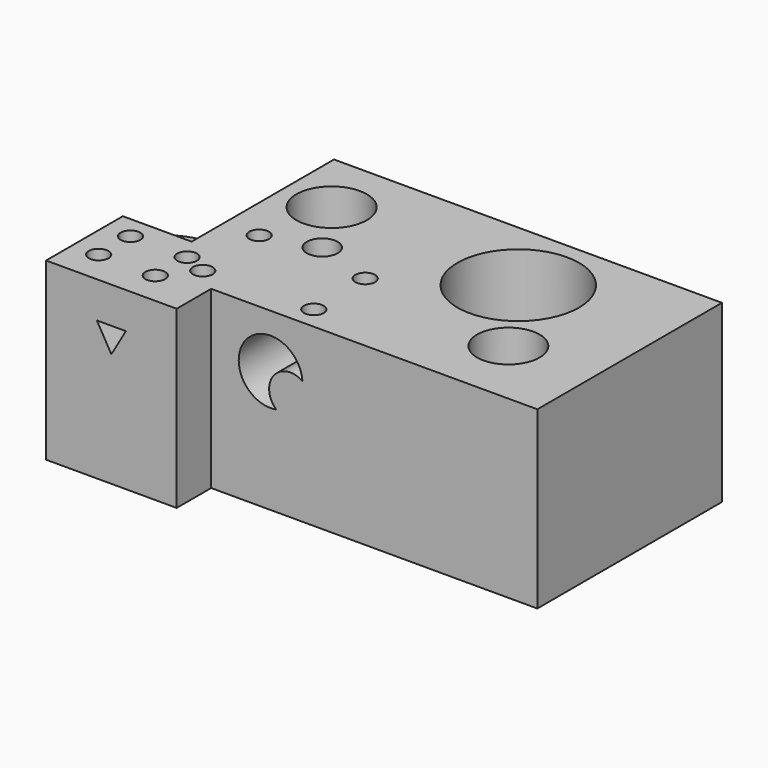
from build123d import *

# Parameters (mm, degrees)
F0_R      = 5.4693390269
F0_R_2    = 2.7091456529
F0_R_3    = 6.1699110027
F0_R_4    = 10.6455543831
F1_DEPTH  = 30.734
F3_DEPTH  = 47.9885970632
F5_DEPTH  = 40.4286065528
F6_R      = 9.5794837086
F7_DEPTH  = 14.2875
F9_DEPTH  = 25.4
F11_D     = 3.4544
F11_DEPTH = 12.7
F11_TIP   = 1.0378064612


with BuildPart() as f1:
    # F0 (on Top) → F1 (new body)
    with BuildSketch(Plane.XY):
        Polygon((29.4250566512, 26.1695962399), (-38.552004844, 26.1695962399), (-38.552004844, -5.0064995885), (-50.6152287126, -5.0064995885), (-50.6152287126, -21.8180008233), (-27.7334339917, -21.8180008233), (-27.7334339917, -14.2580103129), (29.4250566512, -14.2580103129), align=None)
        with Locations((14.6169317886, -2.0951619372)):
            Circle(F0_R, mode=Mode.SUBTRACT)
        with Locations((-23.5138162971, 4.798039794)):
            Circle(F0_R_2, mode=Mode.SUBTRACT)
        with Locations((-29.9707390368, 14.919702895)):
            Circle(F0_R_3, mode=Mode.SUBTRACT)
        with Locations((4.4080126099, 12.825566344)):
            Circle(F0_R_4, mode=Mode.SUBTRACT)
    extrude(amount=F1_DEPTH)

    # F2 (on face) → F3 (cut, through all)
    with BuildSketch(Plane.XZ.offset(21.8180008233)):
        Polygon((-39.1743313521, 19.9836234878), (-36.6343313521, 24.383032539), (-41.7143313521, 24.383032539), align=None)
    extrude(amount=-F3_DEPTH, mode=Mode.SUBTRACT)

    # F4 (on face) → F5 (cut, through all)
    with BuildSketch(Plane.XZ.offset(14.2580103129)):
        with BuildLine():
            ThreePointArc((-16.3189860749, 15.8121321819), (-16.7910518212, 20.9007865676), (-11.7446851809, 21.7079007223))
            ThreePointArc((-11.7446851809, 21.7079007223), (-21.7334437692, 24.7353990954), (-16.3189860749, 15.8121321819))
        make_face()
    extrude(amount=-F5_DEPTH, mode=Mode.SUBTRACT)

    # F11
    with Locations(Plane.XY.offset(30.734)):
        with Locations((-46.0885278881, -8.9969150722), (-46.0885278881, -15.957230702), (-36.1690670252, -8.9969150722), (-36.1690670252, -15.957230702), (-31.9821573794, -10.7862399891), (-32.5041748583, 2.2169682197), (-13.1872687489, 1.299540163), (-12.9549028352, -10.2411890402)):
            Hole(F11_D / 2, depth=F11_DEPTH)
            with Locations((0, 0, -(F11_DEPTH + F11_TIP / 2))):  # 118° drill point
                Cone(0, F11_D / 2, F11_TIP, mode=Mode.SUBTRACT)


with BuildPart() as f7:
    # F6 (on Top) → F7 (new body, symmetric)
    with BuildSketch(Plane.XY):
        with Locations((-56.2216639519, 11.4768818021)):
            Circle(F6_R)
    extrude(amount=F7_DEPTH, both=True)

    # F8 (on face) → F9 (cut)
    with BuildSketch(Plane.XY.offset(14.2875)):
        with BuildLine():
            Line((-61.684911138, 16.3667645872), (-61.2852904338, 13.6428180285))
            ThreePointArc((-61.2852904338, 13.6428180285), (-59.800605963, 15.5213294517), (-59.1570255087, 17.8276029272))
            Line((-59.1570255087, 17.8276029272), (-61.684911138, 16.3667645872))
        make_face()
    extrude(amount=-F9_DEPTH, mode=Mode.SUBTRACT)


solid = Compound([f1.part, f7.part])
